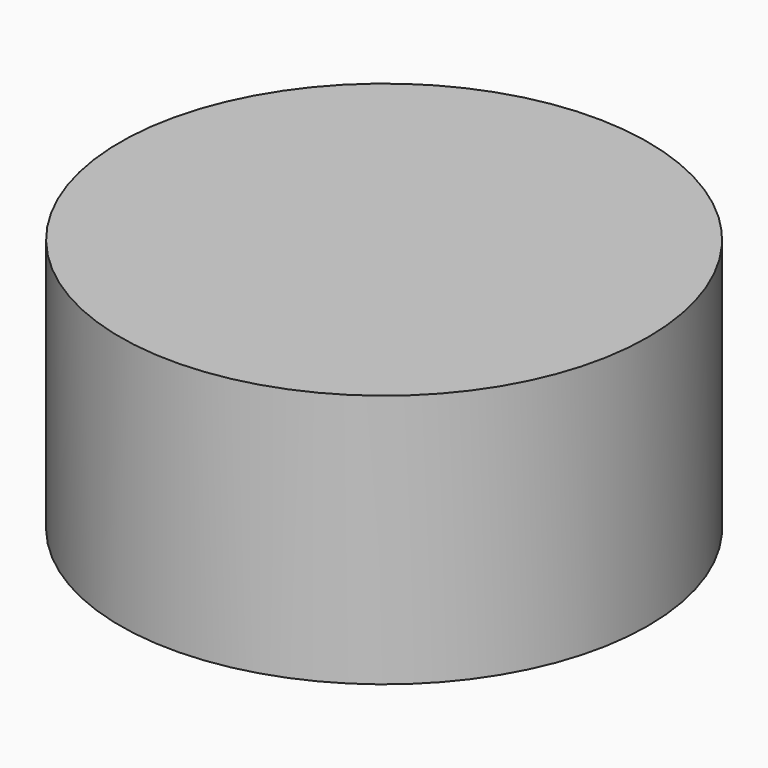
from build123d import *

# Parameters (mm, degrees)
CYLINDER_R     = 15.5829
CYLINDER_DEPTH = 15


with BuildPart() as part:
    # Cylinder → Cylinder (new body)
    with BuildSketch(Plane.XY.offset(-2.5)):
        Circle(CYLINDER_R)
    extrude(amount=CYLINDER_DEPTH)


solid = part.part
